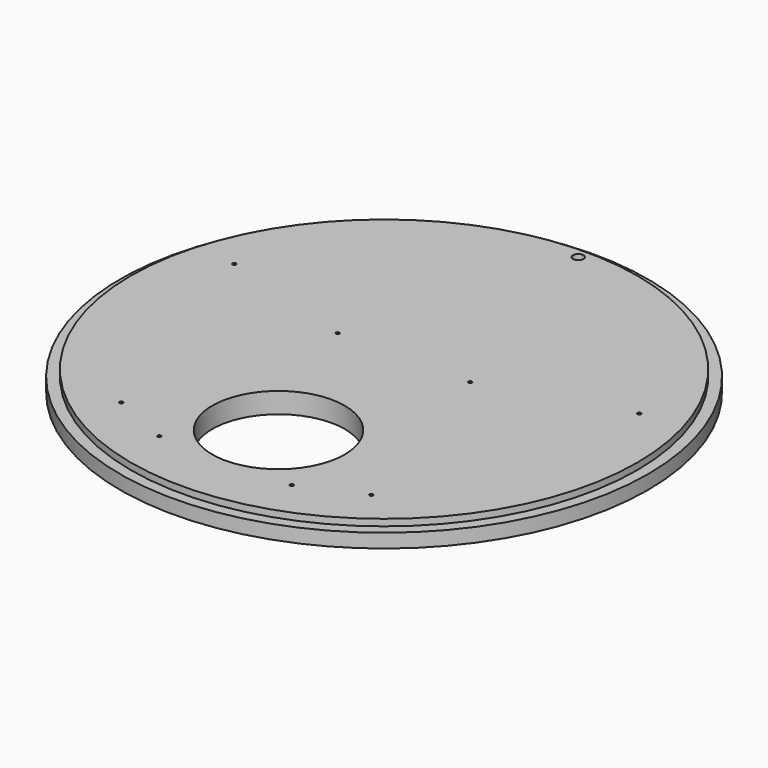
from build123d import *

# Parameters (mm, degrees)
SKETCH049_R     = 151.5
PAD_DEPTH       = 8
SKETCH050_R     = 145.3
PAD008_DEPTH    = 3.8
SKETCH051_R     = 1
SKETCH051_R_2   = 3
POCKET_DEPTH    = 8
SKETCH052_R     = 38
POCKET005_DEPTH = 11.801


with BuildPart() as part:
    # Sketch049 → Pad (new body)
    with BuildSketch(Plane.XY):
        Circle(SKETCH049_R)
    extrude(amount=PAD_DEPTH)

    # Sketch050 (on Face3 of Pad) → Pad008 (join)
    with BuildSketch(Plane.XY.offset(8)):
        Circle(SKETCH050_R)
    extrude(amount=PAD008_DEPTH)

    # Sketch051 (on Face5 of Pad008) → Pocket (cut)
    with BuildSketch(Plane.XY.offset(11.8)):
        with Locations((-38, -113.75)):
            Circle(SKETCH051_R)
        with Locations((-71.827358, -98.861877)):
            Circle(SKETCH051_R)
        with Locations((38, -113.75)):
            Circle(SKETCH051_R)
        with Locations((71.827358, -98.861877)):
            Circle(SKETCH051_R)
        with Locations((38, 14.25)):
            Circle(SKETCH051_R)
        with Locations((-38, 14.25)):
            Circle(SKETCH051_R)
        with Locations((-116.219106, 37.761877)):
            Circle(SKETCH051_R)
        with Locations((116.219106, 37.761877)):
            Circle(SKETCH051_R)
        with Locations((0, 139.3)):
            Circle(SKETCH051_R_2)
    extrude(amount=-POCKET_DEPTH, mode=Mode.SUBTRACT)

    # Sketch052 (on Face5 of Pad008) → Pocket005 (cut, through all)
    with BuildSketch(Plane.XY.offset(11.8)):
        with Locations((0, -75.75)):
            Circle(SKETCH052_R)
    extrude(amount=-POCKET005_DEPTH, mode=Mode.SUBTRACT)


with BuildPart() as part_1:
    # Body placement: moved
    add(part.part.moved(Location((0, 150, 0))))


solid = part_1.part
